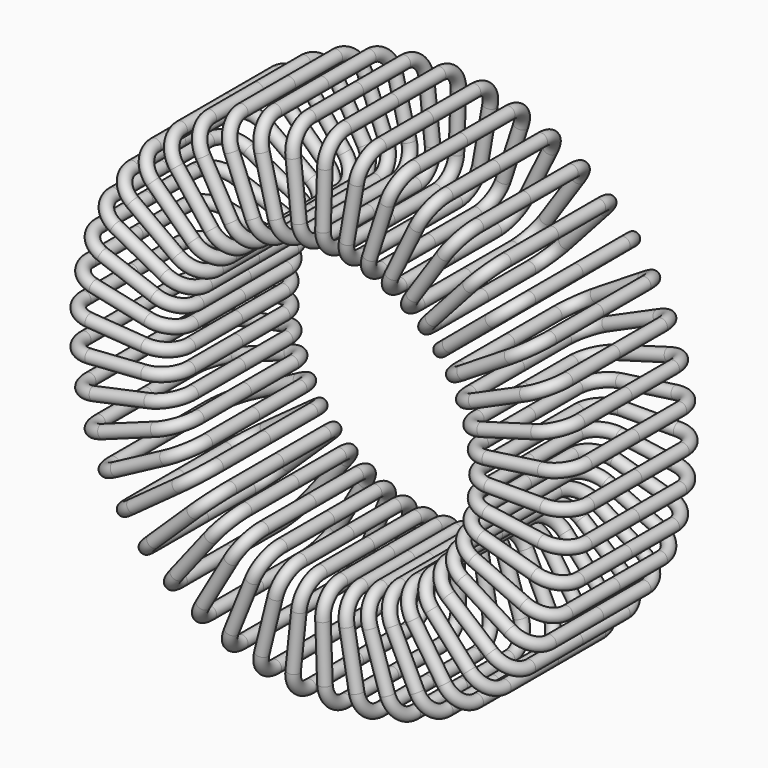
from build123d import *

# Parameters (mm, degrees)
F1_R     = 0.25
F5_COUNT = 49
F5_ANGLE = 384


with BuildPart() as f2:
    # F2: sweep along a path in F0
    with BuildLine(Plane.XY) as f2_path:
        Line((6.05, 0), (6.05, 2.425))
        ThreePointArc((6.05, 2.425), (6.3428932188, 3.1321067812), (7.05, 3.425))
        Line((7.05, 3.425), (9.35, 3.425))
        ThreePointArc((9.35, 3.425), (10.0571067812, 3.1321067812), (10.35, 2.425))
        Line((10.35, 2.425), (10.35, 0))
    # F1 (on Front) → F2 (sweep)
    with BuildSketch(Plane.XZ):
        with Locations((6.05, 0)):
            Circle(F1_R)
    sweep(path=f2_path.line)

    # F3: F2 across plane


with BuildPart() as f2_1:
    add(f2.part)
    add(f2.part.mirror(Plane.XZ))


with BuildPart() as f5_1:
    # F5: instance of F2
    add(f2_1.part.rotate(Axis((0, 0, 0), (0, -1, 0)), 1 * F5_ANGLE / (F5_COUNT - 1)))


with BuildPart() as f5_2:
    # F5: instance of F2
    add(f2_1.part.rotate(Axis((0, 0, 0), (0, -1, 0)), 2 * F5_ANGLE / (F5_COUNT - 1)))


with BuildPart() as f5_3:
    # F5: instance of F2
    add(f2_1.part.rotate(Axis((0, 0, 0), (0, -1, 0)), 3 * F5_ANGLE / (F5_COUNT - 1)))


with BuildPart() as f5_4:
    # F5: instance of F2
    add(f2_1.part.rotate(Axis((0, 0, 0), (0, -1, 0)), 4 * F5_ANGLE / (F5_COUNT - 1)))


with BuildPart() as f5_5:
    # F5: instance of F2
    add(f2_1.part.rotate(Axis((0, 0, 0), (0, -1, 0)), 5 * F5_ANGLE / (F5_COUNT - 1)))


with BuildPart() as f5_6:
    # F5: instance of F2
    add(f2_1.part.rotate(Axis((0, 0, 0), (0, -1, 0)), 6 * F5_ANGLE / (F5_COUNT - 1)))


with BuildPart() as f5_7:
    # F5: instance of F2
    add(f2_1.part.rotate(Axis((0, 0, 0), (0, -1, 0)), 7 * F5_ANGLE / (F5_COUNT - 1)))


with BuildPart() as f5_8:
    # F5: instance of F2
    add(f2_1.part.rotate(Axis((0, 0, 0), (0, -1, 0)), 8 * F5_ANGLE / (F5_COUNT - 1)))


with BuildPart() as f5_9:
    # F5: instance of F2
    add(f2_1.part.rotate(Axis((0, 0, 0), (0, -1, 0)), 9 * F5_ANGLE / (F5_COUNT - 1)))


with BuildPart() as f5_10:
    # F5: instance of F2
    add(f2_1.part.rotate(Axis((0, 0, 0), (0, -1, 0)), 10 * F5_ANGLE / (F5_COUNT - 1)))


with BuildPart() as f5_11:
    # F5: instance of F2
    add(f2_1.part.rotate(Axis((0, 0, 0), (0, -1, 0)), 11 * F5_ANGLE / (F5_COUNT - 1)))


with BuildPart() as f5_12:
    # F5: instance of F2
    add(f2_1.part.rotate(Axis((0, 0, 0), (0, -1, 0)), 12 * F5_ANGLE / (F5_COUNT - 1)))


with BuildPart() as f5_13:
    # F5: instance of F2
    add(f2_1.part.rotate(Axis((0, 0, 0), (0, -1, 0)), 13 * F5_ANGLE / (F5_COUNT - 1)))


with BuildPart() as f5_14:
    # F5: instance of F2
    add(f2_1.part.rotate(Axis((0, 0, 0), (0, -1, 0)), 14 * F5_ANGLE / (F5_COUNT - 1)))


with BuildPart() as f5_15:
    # F5: instance of F2
    add(f2_1.part.rotate(Axis((0, 0, 0), (0, -1, 0)), 15 * F5_ANGLE / (F5_COUNT - 1)))


with BuildPart() as f5_16:
    # F5: instance of F2
    add(f2_1.part.rotate(Axis((0, 0, 0), (0, -1, 0)), 16 * F5_ANGLE / (F5_COUNT - 1)))


with BuildPart() as f5_17:
    # F5: instance of F2
    add(f2_1.part.rotate(Axis((0, 0, 0), (0, -1, 0)), 17 * F5_ANGLE / (F5_COUNT - 1)))


with BuildPart() as f5_18:
    # F5: instance of F2
    add(f2_1.part.rotate(Axis((0, 0, 0), (0, -1, 0)), 18 * F5_ANGLE / (F5_COUNT - 1)))


with BuildPart() as f5_19:
    # F5: instance of F2
    add(f2_1.part.rotate(Axis((0, 0, 0), (0, -1, 0)), 19 * F5_ANGLE / (F5_COUNT - 1)))


with BuildPart() as f5_20:
    # F5: instance of F2
    add(f2_1.part.rotate(Axis((0, 0, 0), (0, -1, 0)), 20 * F5_ANGLE / (F5_COUNT - 1)))


with BuildPart() as f5_21:
    # F5: instance of F2
    add(f2_1.part.rotate(Axis((0, 0, 0), (0, -1, 0)), 21 * F5_ANGLE / (F5_COUNT - 1)))


with BuildPart() as f5_22:
    # F5: instance of F2
    add(f2_1.part.rotate(Axis((0, 0, 0), (0, -1, 0)), 22 * F5_ANGLE / (F5_COUNT - 1)))


with BuildPart() as f5_23:
    # F5: instance of F2
    add(f2_1.part.rotate(Axis((0, 0, 0), (0, -1, 0)), 23 * F5_ANGLE / (F5_COUNT - 1)))


with BuildPart() as f5_24:
    # F5: instance of F2
    add(f2_1.part.rotate(Axis((0, 0, 0), (0, -1, 0)), 24 * F5_ANGLE / (F5_COUNT - 1)))


with BuildPart() as f5_25:
    # F5: instance of F2
    add(f2_1.part.rotate(Axis((0, 0, 0), (0, -1, 0)), 25 * F5_ANGLE / (F5_COUNT - 1)))


with BuildPart() as f5_26:
    # F5: instance of F2
    add(f2_1.part.rotate(Axis((0, 0, 0), (0, -1, 0)), 26 * F5_ANGLE / (F5_COUNT - 1)))


with BuildPart() as f5_27:
    # F5: instance of F2
    add(f2_1.part.rotate(Axis((0, 0, 0), (0, -1, 0)), 27 * F5_ANGLE / (F5_COUNT - 1)))


with BuildPart() as f5_28:
    # F5: instance of F2
    add(f2_1.part.rotate(Axis((0, 0, 0), (0, -1, 0)), 28 * F5_ANGLE / (F5_COUNT - 1)))


with BuildPart() as f5_29:
    # F5: instance of F2
    add(f2_1.part.rotate(Axis((0, 0, 0), (0, -1, 0)), 29 * F5_ANGLE / (F5_COUNT - 1)))


with BuildPart() as f5_30:
    # F5: instance of F2
    add(f2_1.part.rotate(Axis((0, 0, 0), (0, -1, 0)), 30 * F5_ANGLE / (F5_COUNT - 1)))


with BuildPart() as f5_31:
    # F5: instance of F2
    add(f2_1.part.rotate(Axis((0, 0, 0), (0, -1, 0)), 31 * F5_ANGLE / (F5_COUNT - 1)))


with BuildPart() as f5_32:
    # F5: instance of F2
    add(f2_1.part.rotate(Axis((0, 0, 0), (0, -1, 0)), 32 * F5_ANGLE / (F5_COUNT - 1)))


with BuildPart() as f5_33:
    # F5: instance of F2
    add(f2_1.part.rotate(Axis((0, 0, 0), (0, -1, 0)), 33 * F5_ANGLE / (F5_COUNT - 1)))


with BuildPart() as f5_34:
    # F5: instance of F2
    add(f2_1.part.rotate(Axis((0, 0, 0), (0, -1, 0)), 34 * F5_ANGLE / (F5_COUNT - 1)))


with BuildPart() as f5_35:
    # F5: instance of F2
    add(f2_1.part.rotate(Axis((0, 0, 0), (0, -1, 0)), 35 * F5_ANGLE / (F5_COUNT - 1)))


with BuildPart() as f5_36:
    # F5: instance of F2
    add(f2_1.part.rotate(Axis((0, 0, 0), (0, -1, 0)), 36 * F5_ANGLE / (F5_COUNT - 1)))


with BuildPart() as f5_37:
    # F5: instance of F2
    add(f2_1.part.rotate(Axis((0, 0, 0), (0, -1, 0)), 37 * F5_ANGLE / (F5_COUNT - 1)))


with BuildPart() as f5_38:
    # F5: instance of F2
    add(f2_1.part.rotate(Axis((0, 0, 0), (0, -1, 0)), 38 * F5_ANGLE / (F5_COUNT - 1)))


with BuildPart() as f5_39:
    # F5: instance of F2
    add(f2_1.part.rotate(Axis((0, 0, 0), (0, -1, 0)), 39 * F5_ANGLE / (F5_COUNT - 1)))


with BuildPart() as f5_40:
    # F5: instance of F2
    add(f2_1.part.rotate(Axis((0, 0, 0), (0, -1, 0)), 40 * F5_ANGLE / (F5_COUNT - 1)))


with BuildPart() as f5_41:
    # F5: instance of F2
    add(f2_1.part.rotate(Axis((0, 0, 0), (0, -1, 0)), 41 * F5_ANGLE / (F5_COUNT - 1)))


with BuildPart() as f5_42:
    # F5: instance of F2
    add(f2_1.part.rotate(Axis((0, 0, 0), (0, -1, 0)), 42 * F5_ANGLE / (F5_COUNT - 1)))


with BuildPart() as f5_43:
    # F5: instance of F2
    add(f2_1.part.rotate(Axis((0, 0, 0), (0, -1, 0)), 43 * F5_ANGLE / (F5_COUNT - 1)))


with BuildPart() as f5_44:
    # F5: instance of F2
    add(f2_1.part.rotate(Axis((0, 0, 0), (0, -1, 0)), 44 * F5_ANGLE / (F5_COUNT - 1)))


with BuildPart() as f5_45:
    # F5: instance of F2
    add(f2_1.part.rotate(Axis((0, 0, 0), (0, -1, 0)), 45 * F5_ANGLE / (F5_COUNT - 1)))


with BuildPart() as f5_46:
    # F5: instance of F2
    add(f2_1.part.rotate(Axis((0, 0, 0), (0, -1, 0)), 46 * F5_ANGLE / (F5_COUNT - 1)))


with BuildPart() as f5_47:
    # F5: instance of F2
    add(f2_1.part.rotate(Axis((0, 0, 0), (0, -1, 0)), 47 * F5_ANGLE / (F5_COUNT - 1)))


with BuildPart() as f5_48:
    # F5: instance of F2
    add(f2_1.part.rotate(Axis((0, 0, 0), (0, -1, 0)), 48 * F5_ANGLE / (F5_COUNT - 1)))


solid = Compound([f2_1.part, f5_1.part, f5_2.part, f5_3.part, f5_4.part, f5_5.part, f5_6.part, f5_7.part, f5_8.part, f5_9.part, f5_10.part, f5_11.part, f5_12.part, f5_13.part, f5_14.part, f5_15.part, f5_16.part, f5_17.part, f5_18.part, f5_19.part, f5_20.part, f5_21.part, f5_22.part, f5_23.part, f5_24.part, f5_25.part, f5_26.part, f5_27.part, f5_28.part, f5_29.part, f5_30.part, f5_31.part, f5_32.part, f5_33.part, f5_34.part, f5_35.part, f5_36.part, f5_37.part, f5_38.part, f5_39.part, f5_40.part, f5_41.part, f5_42.part, f5_43.part, f5_44.part, f5_45.part, f5_46.part, f5_47.part, f5_48.part])
